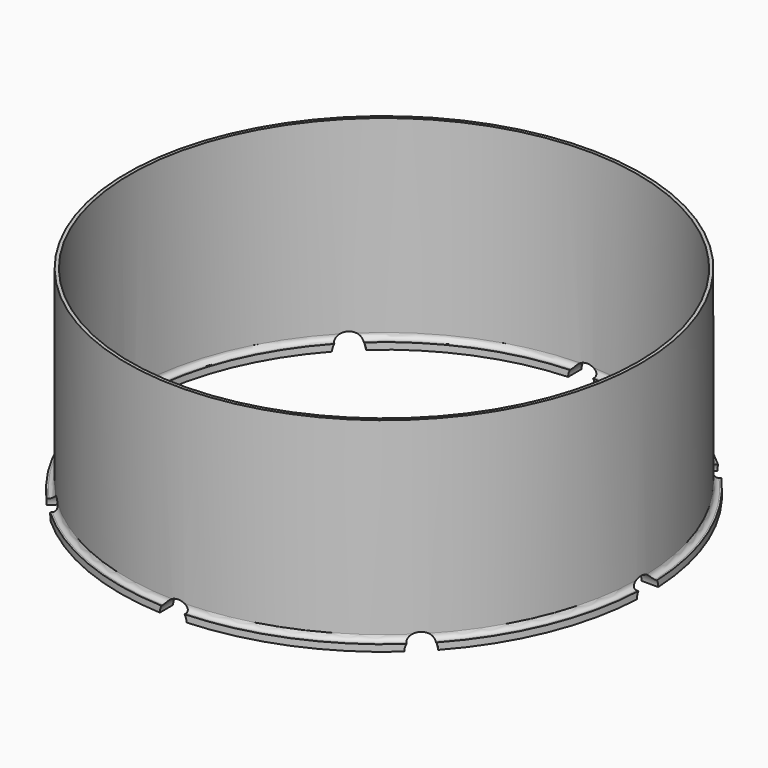
from build123d import *

# Parameters (mm, degrees)
SKETCH_R           = 77
SKETCH_R_2         = 76
PAD_DEPTH          = 60
SKETCH002_R        = 79
SKETCH002_R_2      = 74
PAD001_DEPTH       = 2
SKETCH001_R        = 4
POCKET_DEPTH       = 541.723379
POLARPATTERN_COUNT = 8
FILLET_R           = 1.5


with BuildPart() as part:
    # Sketch → Pad (new body)
    with BuildSketch(Plane.XY):
        Circle(SKETCH_R)
        Circle(SKETCH_R_2, mode=Mode.SUBTRACT)
    extrude(amount=PAD_DEPTH)

    # Sketch002 → Pad001 (join)
    with BuildSketch(Plane.XY):
        Circle(SKETCH002_R)
        Circle(SKETCH002_R_2, mode=Mode.SUBTRACT)
    extrude(amount=PAD001_DEPTH)

    # Sketch001 → Pocket (cut, through all)
    with BuildSketch(Plane.XZ):
        Circle(SKETCH001_R)
    pocket = extrude(amount=-POCKET_DEPTH, mode=Mode.SUBTRACT)

    # PolarPattern: Pocket ×8 about axis
    polarpattern_axis = Axis((0, 0, 0), (0, 0, 1))
    for i in range(1, POLARPATTERN_COUNT):
        add(pocket.rotate(polarpattern_axis, i * 360 / POLARPATTERN_COUNT), mode=Mode.SUBTRACT)

    # Fillet
    fillet_edges = [part.edges().sort_by_distance(p)[0] for p in [
        (-29.466624, -71.138724, 2),
        (29.466624, -71.138724, 2),
        (71.138724, -29.466624, 2),
        (71.138724, 29.466624, 2),
        (-71.138724, 29.466624, 2),
        (-71.138724, -29.466624, 2),
        (-29.466624, 71.138724, 2),
        (29.466624, 71.138724, 2),
        (-29.083941, 70.214844, 2),
        (29.083941, 70.214844, 2),
        (70.214844, 29.083941, 2),
        (70.214844, -29.083941, 2),
        (29.083941, -70.214844, 2),
        (-29.083941, -70.214844, 2),
        (-70.214844, -29.083941, 2),
        (-70.214844, 29.083941, 2),
    ]]
    fillet(fillet_edges, radius=FILLET_R)


solid = part.part
